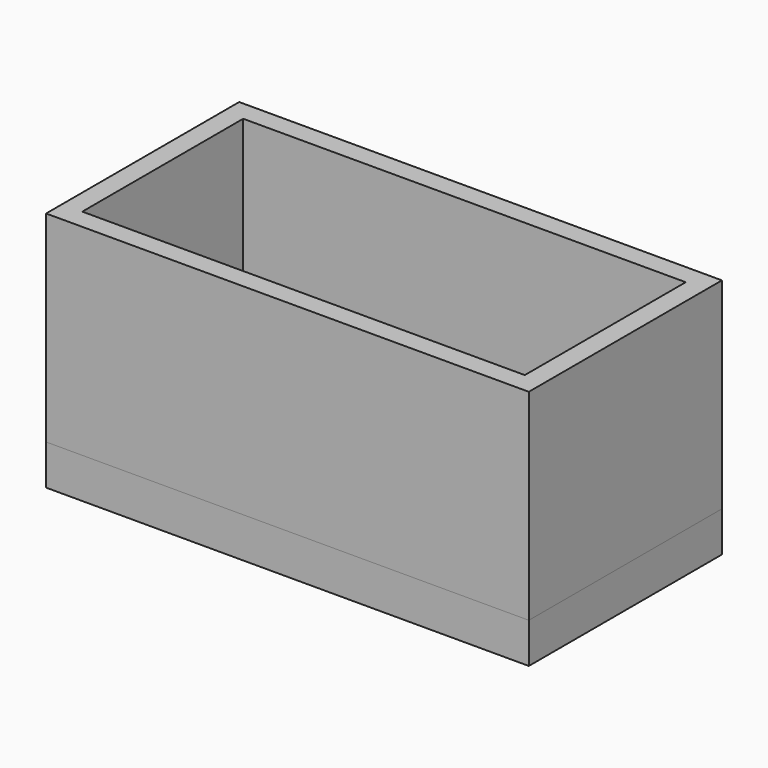
from build123d import *

# Parameters (mm, degrees)
F0_W     = 152.4
F0_H     = 76.2
F1_DEPTH = 76.2
F2_T     = -6.35
F3_W     = 152.4
F3_H     = 76.2
F4_DEPTH = 12.7


with BuildPart() as f1:
    # F0 (on Top) → F1 (new body)
    with BuildSketch(Plane.XY):
        Rectangle(F0_W, F0_H)
    extrude(amount=F1_DEPTH)

    # F2
    f2_openings = [f1.faces().sort_by_distance(p)[0] for p in [
        (0, 0, 76.2),
    ]]
    offset(amount=F2_T, openings=f2_openings)


with BuildPart() as f4:
    # F3 (on Top) → F4 (new body)
    with BuildSketch(Plane.XY):
        Rectangle(F3_W, F3_H)
    extrude(amount=F4_DEPTH)


solid = Compound([f1.part, f4.part])
